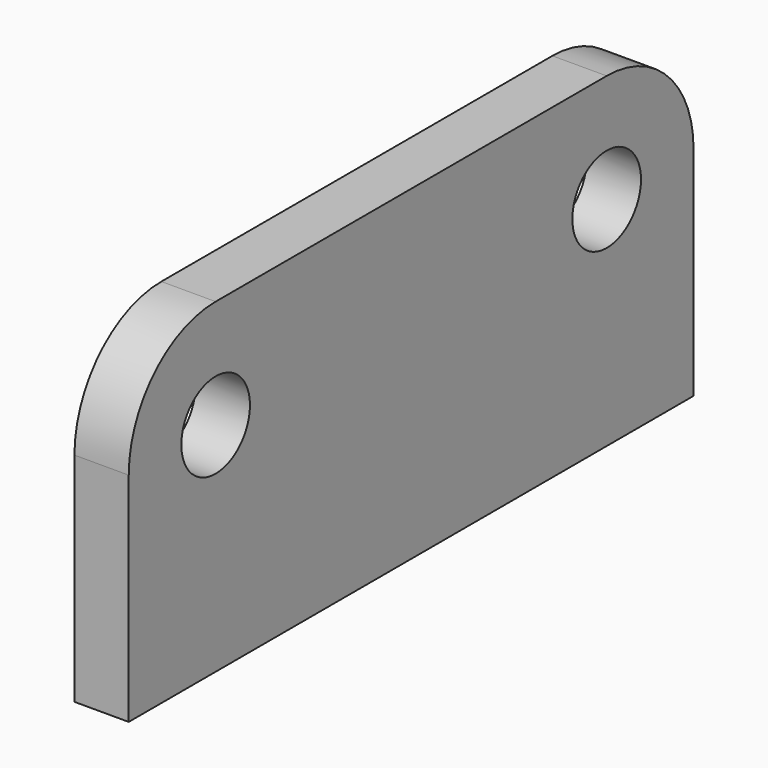
from build123d import *

# Parameters (mm, degrees)
F0_R     = 20.066
F1_DEPTH = 25.4


with BuildPart() as f1:
    # F0 (on Right) → F1 (new body)
    with BuildSketch(Plane.YZ):
        with BuildLine():
            Line((279.4, 0), (50.8, 0))
            ThreePointArc((50.8, 0), (14.878976, -14.878976), (0, -50.8))
            Line((0, -50.8), (0, -152.4))
            Line((0, -152.4), (330.2, -152.4))
            Line((330.2, -152.4), (330.2, -50.8))
            ThreePointArc((330.2, -50.8), (315.321024, -14.878976), (279.4, 0))
        make_face()
        with Locations((50.8, -50.8)):
            Circle(F0_R, mode=Mode.SUBTRACT)
        with Locations((279.4, -50.8)):
            Circle(F0_R, mode=Mode.SUBTRACT)
    extrude(amount=F1_DEPTH)


solid = f1.part
